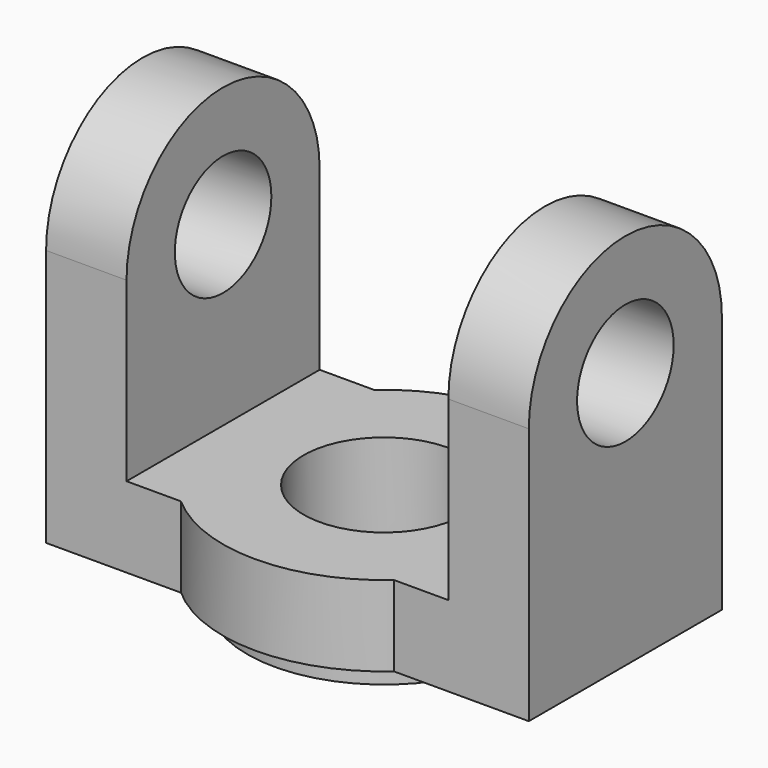
from build123d import *

# Parameters (mm, degrees)
F0_W      = 60
F0_H      = 10
F1_DEPTH  = 30
F2_R      = 20
F3_DEPTH  = 10
F4_R      = 17
F5_DEPTH  = 3
F6_W      = 10
F6_H      = 30
F7_DEPTH  = 40
F8_R      = 7.5
F9_DEPTH  = 60.001
F11_DEPTH = 60.001
F12_R     = 10
F13_DEPTH = 13.001


with BuildPart() as f1:
    # F0 (on Front) → F1 (new body)
    with BuildSketch(Plane.XZ):
        with Locations((30, 5)):
            Rectangle(F0_W, F0_H)
    extrude(amount=-F1_DEPTH)

    # F2 (on face) → F3 (join)
    with BuildSketch(Plane.XY.offset(10)):
        with Locations((30, 15)):
            Circle(F2_R)
    extrude(amount=-F3_DEPTH)

    # F4 (on face) → F5 (join)
    with BuildSketch(Plane(origin=(0, 0, 0), x_dir=(1, 0, 0), z_dir=(0, 0, -1))):
        with Locations((30, -15)):
            Circle(F4_R)
    extrude(amount=F5_DEPTH)

    # F6 (on face) → F7 (join)
    with BuildSketch(Plane.XY.offset(10)):
        with Locations((55, 15)):
            Rectangle(F6_W, F6_H)
        with Locations((5, 15)):
            Rectangle(F6_W, F6_H)
    extrude(amount=F7_DEPTH)

    # F8 (on face) → F9 (cut, through all)
    with BuildSketch(Plane.YZ.offset(60)):
        with Locations((15, 32)):
            Circle(F8_R)
    extrude(amount=-F9_DEPTH, mode=Mode.SUBTRACT)

    # F10 (on face) → F11 (cut, through all)
    with BuildSketch(Plane.YZ.offset(60)):
        with BuildLine():
            ThreePointArc((0, 32.000001), (15, 47), (30, 32.000001))
            Line((30, 32.000001), (30, 50))
            Line((30, 50), (0, 50))
            Line((0, 50), (0, 32.000001))
        make_face()
    extrude(amount=-F11_DEPTH, mode=Mode.SUBTRACT)

    # F12 (on face) → F13 (cut, through all)
    with BuildSketch(Plane.XY.offset(10)):
        with Locations((30, 15)):
            Circle(F12_R)
    extrude(amount=-F13_DEPTH, mode=Mode.SUBTRACT)


solid = f1.part
